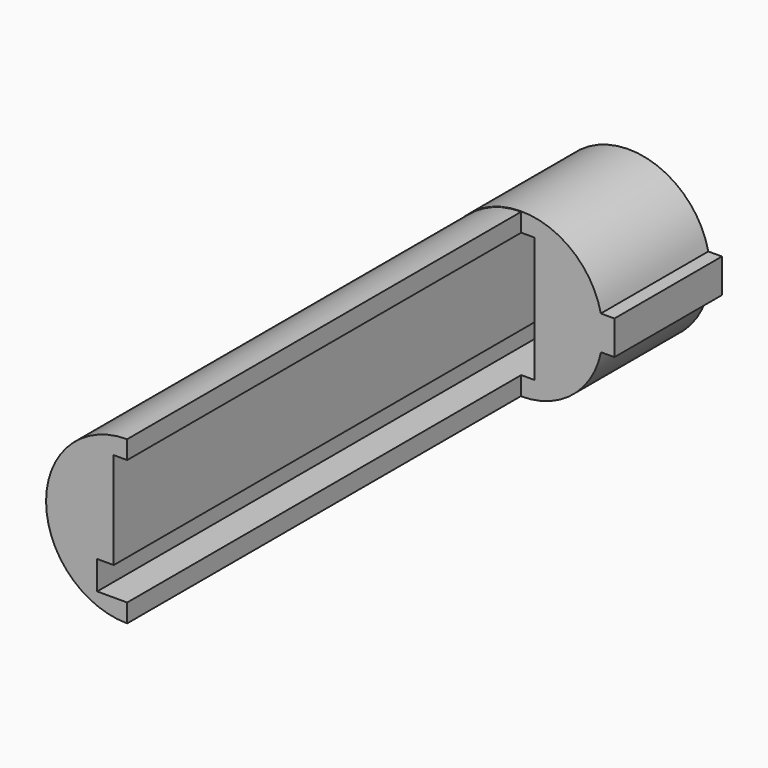
from build123d import *

# Parameters (mm, degrees)
PAD_DEPTH    = 15
POCKET_DEPTH = 13
PAD001_DEPTH = 55


with BuildPart() as part:
    # Sketch → Pad (new body)
    with BuildSketch(Plane.XZ):
        with BuildLine():
            ThreePointArc((8.889624, 1.945402), (-9.099882, -0.046426), (8.90901, -1.854598))
            Line((10.40901, -1.854598), (8.90901, -1.854598))
            Line((10.40901, 1.945402), (10.40901, -1.854598))
            Line((8.889624, 1.945402), (10.40901, 1.945402))
        make_face()
    extrude(amount=PAD_DEPTH)

    # Sketch001 (on Face6 of Pad) → Pocket (cut)
    with BuildSketch(Plane.XZ.offset(15)):
        Polygon((-1.5, 7), (1.5, 7), (1.5, -7), (-3.348355, -7), (-3.348355, -3.808815), (-1.5, -3.808815), align=None)
    extrude(amount=-POCKET_DEPTH, mode=Mode.SUBTRACT)

    # Sketch002 (on Face5 of Pocket) → Pad001 (join)
    with BuildSketch(Plane.XZ.offset(15)):
        with BuildLine():
            Line((0, 7), (-1.5, 7))
            Line((-1.5, 7), (-1.5, -3.808815))
            Line((-1.5, -3.808815), (-3.348355, -3.808815))
            Line((-3.348355, -3.808815), (-3.348355, -7))
            Line((-3.348355, -7), (0, -7))
            Line((0, -7), (0, -9.054887))
            ThreePointArc((0, 9.054887), (-9.054887, 0), (0, -9.054887))
            Line((0, 7), (0, 9.054887))
        make_face()
    extrude(amount=PAD001_DEPTH)


solid = part.part
